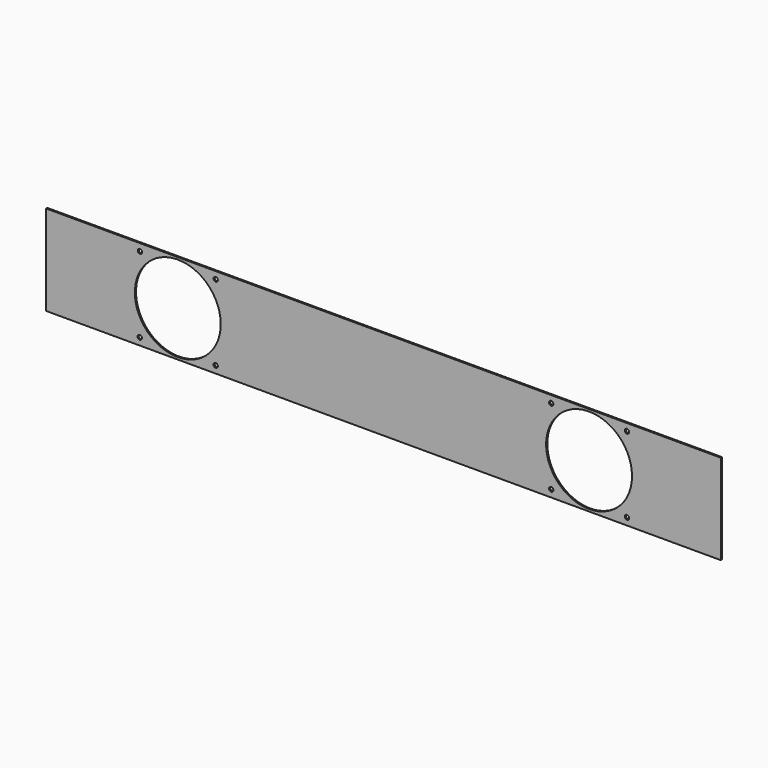
from build123d import *

# Parameters (mm, degrees)
F0_W     = 935
F0_H     = 125
F0_R     = 3
F0_R_2   = 59.5
F1_DEPTH = 2


with BuildPart() as f1:
    # F0 (on Front) → F1 (new body)
    with BuildSketch(Plane.XZ):
        with Locations((336.224301, -21.191215)):
            Rectangle(F0_W, F0_H)
        with Locations((-1.490244, -73.691215)):
            Circle(F0_R, mode=Mode.SUBTRACT)
        with Locations((103.757686, -73.691215)):
            Circle(F0_R, mode=Mode.SUBTRACT)
        with Locations((568.724301, -73.691215)):
            Circle(F0_R, mode=Mode.SUBTRACT)
        with Locations((673.724301, -73.691215)):
            Circle(F0_R, mode=Mode.SUBTRACT)
        with Locations((51.257686, -21.191215)):
            Circle(F0_R_2, mode=Mode.SUBTRACT)
        with Locations((-1.242314, 31.308785)):
            Circle(F0_R, mode=Mode.SUBTRACT)
        with Locations((103.757686, 31.308785)):
            Circle(F0_R, mode=Mode.SUBTRACT)
        with Locations((621.224301, -21.191215)):
            Circle(F0_R_2, mode=Mode.SUBTRACT)
        with Locations((568.724301, 31.308785)):
            Circle(F0_R, mode=Mode.SUBTRACT)
        with Locations((673.724301, 31.308785)):
            Circle(F0_R, mode=Mode.SUBTRACT)
    extrude(amount=F1_DEPTH)


solid = f1.part
